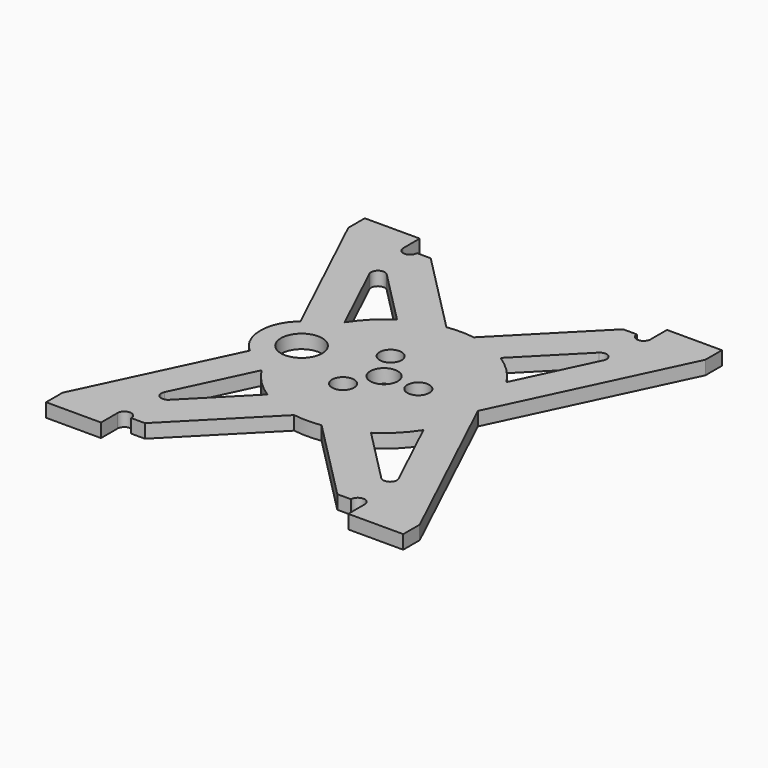
from build123d import *

# Parameters (mm, degrees)
PAD_DEPTH     = 1
SKETCH008_R   = 0.8
SKETCH008_R_2 = 1
SKETCH008_R_3 = 1.5
POCKET_DEPTH  = 1.001


with BuildPart() as part:
    # Sketch007 → Pad (new body)
    with BuildSketch(Plane.XY):
        with BuildLine():
            Line((-13, 14.5), (-9, 14.5))
            Line((-9, 14.5), (-9, 13))
            ThreePointArc((-9, 13), (-8.5, 12.5), (-8, 13))
            Line((-8, 13), (-7, 13))
            Line((-7, 13), (-1, 6.928203))
            ThreePointArc((1, 6.928203), (0, 7), (-1, 6.928203))
            Line((7, 13), (1, 6.928203))
            Line((8, 13), (7, 13))
            ThreePointArc((8, 13), (8.5, 12.5), (9, 13))
            Line((9, 14.5), (9, 13))
            Line((9, 14.5), (13, 14.5))
            Line((13, 14.5), (13, 13))
            Line((6.83213, 0), (13, 13))
            Line((6.83213, 0), (-6.83213, 0))
            Line((-9, 0), (-6.83213, 0))
            ThreePointArc((-7.924155, 2.301657), (-8.717762, 1.270341), (-9, 0))
            Line((-7.924155, 2.301657), (-13, 13))
            Line((-13, 14.5), (-13, 13))
        make_face()
        with BuildLine():
            Line((-8.526013, 9.328003), (-5.892862, 3.778118))
            ThreePointArc((-3.770099, 5.897996), (-4.94638, 4.953113), (-5.892862, 3.778118))
            Line((-7.718628, 9.893773), (-3.770099, 5.897996))
            ThreePointArc((-7.718628, 9.893773), (-8.361214, 9.951801), (-8.526013, 9.328003))
        make_face(mode=Mode.SUBTRACT)
        with BuildLine():
            ThreePointArc((5.892862, 3.778118), (4.94638, 4.953113), (3.770099, 5.897996))
            Line((7.718628, 9.893773), (3.770099, 5.897996))
            ThreePointArc((8.526013, 9.328002), (8.361214, 9.951801), (7.718628, 9.893773))
            Line((8.526013, 9.328002), (5.892862, 3.778118))
        make_face(mode=Mode.SUBTRACT)
    pad = extrude(amount=PAD_DEPTH)

    # Mirrored: Pad across Sketch007 H_Axis
    add(pad.mirror(Plane.ZX))

    # Sketch008 → Pocket (cut, through all)
    with BuildSketch(Plane.XY):
        with Locations((2.5, 0)):
            Circle(SKETCH008_R)
        with Locations((-1.25, -2.165064)):
            Circle(SKETCH008_R)
        with Locations((-1.25, 2.165064)):
            Circle(SKETCH008_R)
        Circle(SKETCH008_R_2)
        with Locations((-6, 0)):
            Circle(SKETCH008_R_3)
    extrude(amount=POCKET_DEPTH, mode=Mode.SUBTRACT)


solid = part.part
